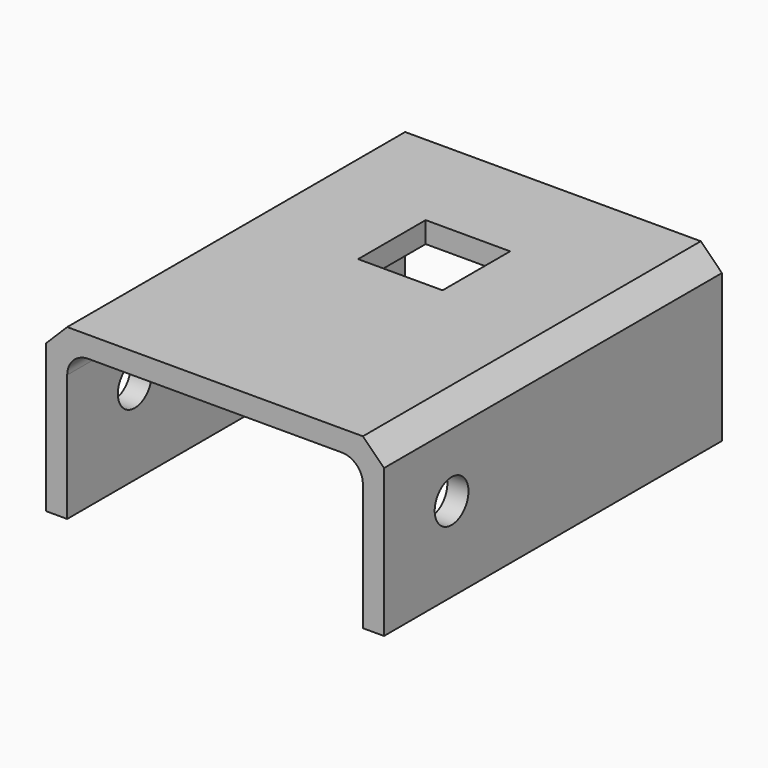
from build123d import *

# Parameters (mm, degrees)
F1_DEPTH = 50
F2_SIZE  = 5
F3_W     = 20
F3_H     = 20
F4_DEPTH = 10
F5_R     = 5
F6_DEPTH = 100


with BuildPart() as f1:
    # F0 (on Front) → F1 (new body, symmetric)
    with BuildSketch(Plane.XZ):
        with BuildLine():
            Line((40, -20), (40, 20))
            Line((40, 20), (-40, 20))
            Line((-40, 20), (-40, -20))
            Line((-40, -20), (-35, -20))
            Line((-35, -20), (-35, 10))
            ThreePointArc((-35, 10), (-33.535534, 13.535534), (-30, 15))
            Line((-30, 15), (30, 15))
            ThreePointArc((30, 15), (33.535534, 13.535534), (35, 10))
            Line((35, 10), (35, -20))
            Line((35, -20), (40, -20))
        make_face()
    extrude(amount=F1_DEPTH, both=True)

    # F2
    f2_edges = [f1.edges().sort_by_distance(p)[0] for p in [
        (40, 0, 20),
        (-40, 0, 20),
    ]]
    chamfer(f2_edges, length=F2_SIZE)

    # F3 (on face) → F4 (cut)
    with BuildSketch(Plane.XY.offset(20)):
        with Locations((0, 14.830591)):
            Rectangle(F3_W, F3_H)
    extrude(amount=-F4_DEPTH, mode=Mode.SUBTRACT)

    # F5 (on face) → F6 (cut)
    with BuildSketch(Plane.YZ.offset(40)):
        with Locations((-30, 0)):
            Circle(F5_R)
    extrude(amount=-F6_DEPTH, mode=Mode.SUBTRACT)


solid = f1.part
